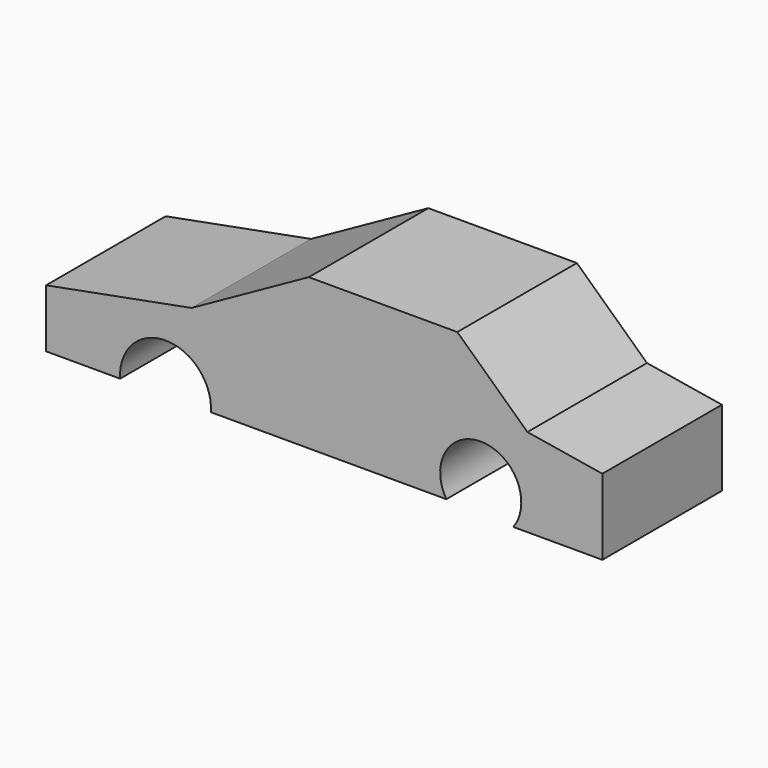
from build123d import *

# Parameters (mm, degrees)
F1_DEPTH      = 25.4
F1_DEPTH_BACK = 25.4


with BuildPart() as f1:
    # F0 (on Front) → F1 (new body, two sides)
    with BuildSketch(Plane.XZ) as f1_sk:
        with BuildLine():
            Line((-8.390563, 22.175057), (-48.245732, 0))
            Line((-48.245732, 0), (-97.690113, -9.289551))
            Line((-97.690113, -9.289551), (-97.690113, -29.067304))
            Line((-97.690113, -29.067304), (-72.518431, -29.067304))
            ThreePointArc((-72.518431, -29.067304), (-57.08579, -12.585117), (-41.653149, -29.067304))
            Line((-41.653149, -29.067304), (38.356856, -29.067304))
            ThreePointArc((38.356856, -29.067304), (50.593399, -7.999803), (61.131231, -29.966293))
            Line((61.131231, -29.966293), (91.397189, -29.966293))
            Line((91.397189, -29.966293), (91.397189, -4.195281))
            Line((91.397189, -4.195281), (65.925851, 0))
            Line((65.925851, 0), (42.098479, 22.175057))
            Line((42.098479, 22.175057), (-8.390563, 22.175057))
        make_face()
    extrude(amount=F1_DEPTH)
    extrude(f1_sk.sketch, amount=-F1_DEPTH_BACK)


solid = f1.part
